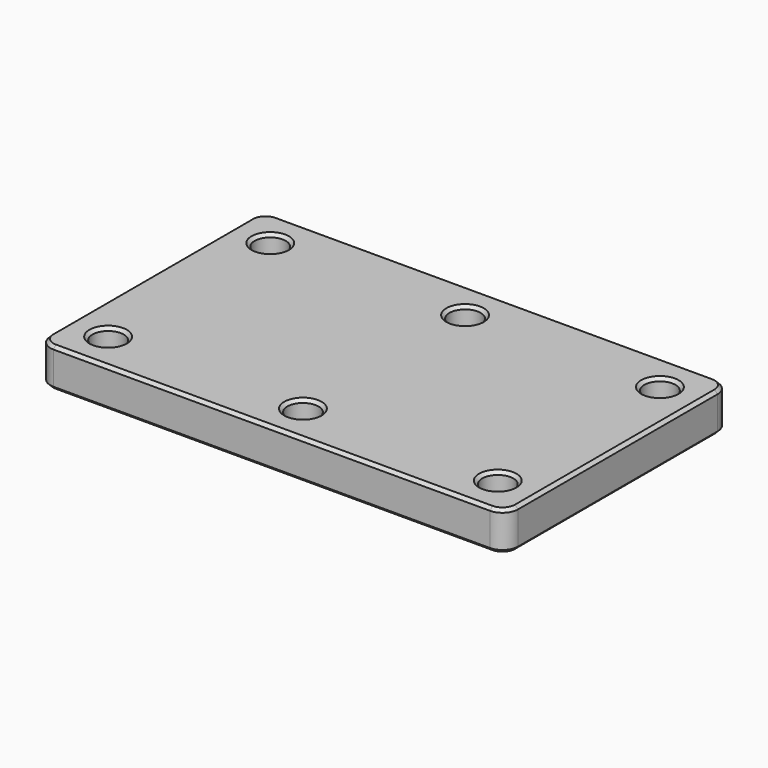
from build123d import *

# Parameters (mm, degrees)
F0_W     = 300
F0_H     = 180
F0_R     = 10
F1_DEPTH = 25
F2_SIZE2 = 2
F2_SIZE  = 2
F3_R     = 10
F4_SIZE2 = 2
F4_SIZE  = 2


with BuildPart() as f1:
    # F0 (on Top) → F1 (new body)
    with BuildSketch(Plane.XY):
        with Locations((150, 90)):
            Rectangle(F0_W, F0_H)
        with Locations((25, 25)):
            Circle(F0_R, mode=Mode.SUBTRACT)
        with Locations((150, 25)):
            Circle(F0_R, mode=Mode.SUBTRACT)
        with Locations((275, 25)):
            Circle(F0_R, mode=Mode.SUBTRACT)
        with Locations((25, 155)):
            Circle(F0_R, mode=Mode.SUBTRACT)
        with Locations((150, 155)):
            Circle(F0_R, mode=Mode.SUBTRACT)
        with Locations((275, 155)):
            Circle(F0_R, mode=Mode.SUBTRACT)
    extrude(amount=F1_DEPTH)

    # F2
    f2_edges = [f1.edges().sort_by_distance(p)[0] for p in [
        (15, 155, 25),
        (15, 25, 25),
        (140, 25, 25),
        (140, 155, 25),
        (265, 155, 25),
        (265, 25, 25),
        (265, 25, 0),
        (265, 155, 0),
        (140, 155, 0),
        (140, 25, 0),
        (15, 25, 0),
        (15, 155, 0),
    ]]
    chamfer(f2_edges, length=F2_SIZE, length2=F2_SIZE2)

    # F3
    f3_edges = [f1.edges().sort_by_distance(p)[0] for p in [
        (0, 0, 12.5),
        (0, 180, 12.5),
        (300, 0, 12.5),
        (300, 180, 12.5),
    ]]
    fillet(f3_edges, radius=F3_R)

    # F4
    f4_edges = [f1.edges().sort_by_distance(p)[0] for p in [
        (150, 180, 25),
        (150, 0, 0),
    ]]
    chamfer(f4_edges, length=F4_SIZE, length2=F4_SIZE2)


solid = f1.part
